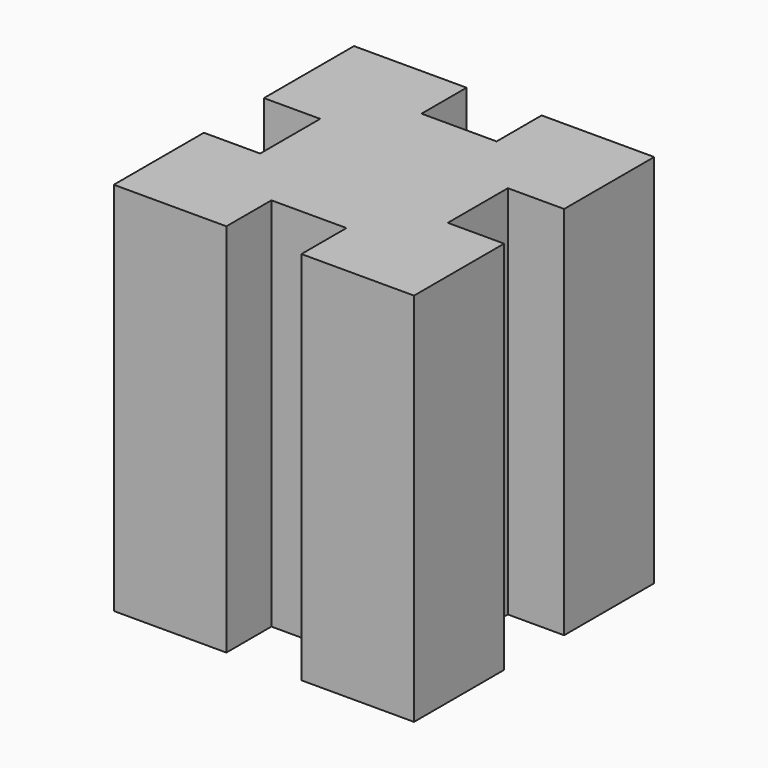
from build123d import *

# Parameters (mm, degrees)
F0_W     = 7.5
F0_H     = 7.5
F1_DEPTH = 50


with BuildPart() as f1:
    # F0 (on Top) → F1 (new body)
    with BuildSketch(Plane.XY):
        with Locations((8.75, 8.75)):
            Rectangle(F0_W, F0_H)
        Polygon((5, 12.5), (12.5, 12.5), (12.5, 5), (20, 5), (20, 20), (5, 20), align=None)
        Polygon((5, 5), (5, 12.5), (-5, 12.5), (-5, 5), (-12.5, 5), (-12.5, -5), (-5, -5), (-5, -12.5), (5, -12.5), (5, -5), (12.5, -5), (12.5, 5), align=None)
        with Locations((-8.75, 8.75)):
            Rectangle(F0_W, F0_H)
        Polygon((-12.5, 12.5), (-5, 12.5), (-5, 20), (-20, 20), (-20, 5), (-12.5, 5), align=None)
        Polygon((20, -5), (12.5, -5), (12.5, -12.5), (5, -12.5), (5, -20), (20, -20), align=None)
        with Locations((8.75, -8.75)):
            Rectangle(F0_W, F0_H)
        with Locations((-8.75, -8.75)):
            Rectangle(F0_W, F0_H)
        Polygon((-12.5, -12.5), (-12.5, -5), (-20, -5), (-20, -20), (-5, -20), (-5, -12.5), align=None)
    extrude(amount=F1_DEPTH)


solid = f1.part
